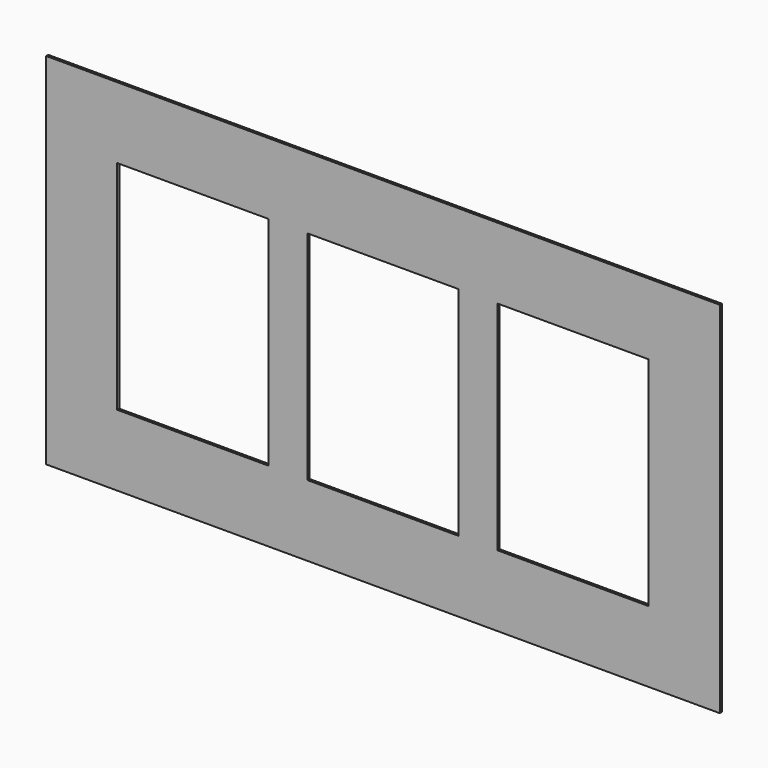
from build123d import *

# Parameters (mm, degrees)
F0_W     = 521
F0_H     = 278
F0_W_2   = 117
F0_H_2   = 168
F1_DEPTH = 2


with BuildPart() as f1:
    # F0 (on Front) → F1 (new body)
    with BuildSketch(Plane.XZ):
        Rectangle(F0_W, F0_H)
        with Locations((-147, 0)):
            Rectangle(F0_W_2, F0_H_2, mode=Mode.SUBTRACT)
        Rectangle(F0_W_2, F0_H_2, mode=Mode.SUBTRACT)
        with Locations((147, 0)):
            Rectangle(F0_W_2, F0_H_2, mode=Mode.SUBTRACT)
    extrude(amount=F1_DEPTH)


solid = f1.part
